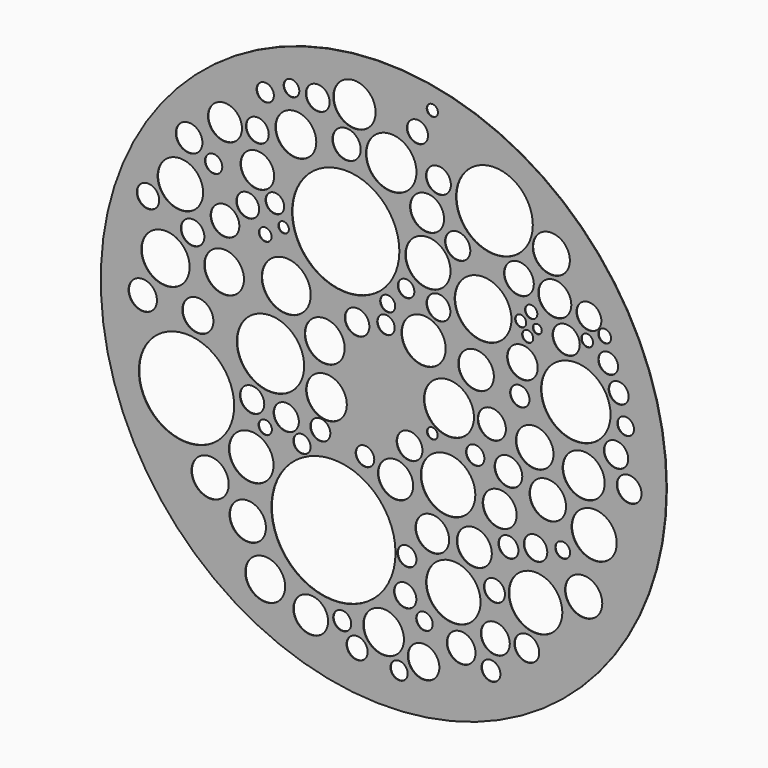
from build123d import *

# Parameters (mm, degrees)
F0_R     = 1000
F0_R_2   = 61.38998
F0_R_3   = 31.842181
F0_R_4   = 37.242055
F0_R_5   = 70.526293
F0_R_6   = 64.356651
F0_R_7   = 219.391517
F0_R_8   = 65.753484
F0_R_9   = 168.521236
F0_R_10  = 78.850831
F0_R_11  = 23.553947
F0_R_12  = 30.460371
F0_R_13  = 42.966316
F0_R_14  = 44.604784
F0_R_15  = 119.021956
F0_R_16  = 35.263173
F0_R_17  = 32.876751
F0_R_18  = 71.936304
F0_R_19  = 30.460413
F0_R_20  = 71.786959
F0_R_21  = 55.755955
F0_R_22  = 33.453559
F0_R_23  = 39.364688
F0_R_24  = 29.177227
F0_R_25  = 33.453586
F0_R_26  = 96.224838
F0_R_27  = 50.725429
F0_R_28  = 51.194623
F0_R_29  = 37.242023
F0_R_30  = 43.956721
F0_R_31  = 94.67152
F0_R_32  = 59.490896
F0_R_33  = 62.241098
F0_R_34  = 61.855632
F0_R_35  = 35.263136
F0_R_36  = 60.050997
F0_R_37  = 45.664417
F0_R_38  = 96.324191
F0_R_39  = 18.812673
F0_R_40  = 48.901236
F0_R_41  = 32.289583
F0_R_42  = 65.753459
F0_R_43  = 41.494101
F0_R_44  = 26.243157
F0_R_45  = 64.57922
F0_R_46  = 79.815419
F0_R_47  = 66.49981
F0_R_48  = 74.355552
F0_R_49  = 43.738606
F0_R_50  = 50.180363
F0_R_51  = 85.318234
F0_R_52  = 54.913217
F0_R_53  = 70.118247
F0_R_54  = 39.606942
F0_R_55  = 41.494074
F0_R_56  = 80.412392
F0_R_57  = 30.616988
F0_R_58  = 86.653157
F0_R_59  = 70.594088
F0_R_60  = 43.409279
F0_R_61  = 22.302375
F0_R_62  = 18.556744
F0_R_63  = 40.206182
F0_R_64  = 32.87672
F0_R_65  = 189.671128
F0_R_66  = 47.107899
F0_R_67  = 60.051012
F0_R_68  = 59.410431
F0_R_69  = 40.324973
F0_R_70  = 72.201723
F0_R_71  = 49.869616
F0_R_72  = 27.662725
F0_R_73  = 42.06647
F0_R_74  = 74.804504
F0_R_75  = 88.361083
F0_R_76  = 30.927843
F0_R_77  = 78.058306
F0_R_78  = 49.797687
F0_R_79  = 34.160865
F0_R_80  = 62.872096
F0_R_81  = 54.013128
F0_R_82  = 26.605142
F0_R_83  = 29.17726
F0_R_84  = 42.066419
F0_R_85  = 79.815404
F0_R_86  = 100.360726
F0_R_87  = 19.560463
F0_R_88  = 52.577273
F0_R_89  = 122.779995
F0_R_90  = 42.966345
F0_R_91  = 29.340715
F0_R_92  = 35.263226
F0_R_93  = 19.560434
F0_R_94  = 15.770137
F0_R_95  = 48.01289
F0_R_96  = 20.747037
F0_R_97  = 21.64948
F0_R_98  = 58.354486
F0_R_99  = 43.956675
F0_R_100 = 34.990798
F0_R_101 = 22.515749
F0_R_102 = 60.050972
F0_R_103 = 89.209455
F0_R_104 = 43.956667
F0_R_105 = 44.604751
F0_R_106 = 135.660057
F0_R_107 = 37.242065
F0_R_108 = 19.803494
F0_R_109 = 65.607934
F1_DEPTH = 2


with BuildPart() as f1:
    # F0 (on Front) → F1 (new body)
    with BuildSketch(Plane.XZ):
        Circle(F0_R)
        with Locations((-257.769406, -802.577317)):
            Circle(F0_R_2, mode=Mode.SUBTRACT)
        with Locations((-146.429196, -784.020603)):
            Circle(F0_R_3, mode=Mode.SUBTRACT)
        with Locations((-93.851864, -852.061868)):
            Circle(F0_R_4, mode=Mode.SUBTRACT)
        with Locations((-418.594122, -743.814468)):
            Circle(F0_R_5, mode=Mode.SUBTRACT)
        with Locations((-480.449796, -582.989693)):
            Circle(F0_R_6, mode=Mode.SUBTRACT)
        with Locations((-177.357018, -511.855662)):
            Circle(F0_R_7, mode=Mode.SUBTRACT)
        with Locations((-613.4395, -490.206182)):
            Circle(F0_R_8, mode=Mode.SUBTRACT)
        with Locations((-696.944654, -239.690721)):
            Circle(F0_R_9, mode=Mode.SUBTRACT)
        with Locations((-468.078673, -378.865957)):
            Circle(F0_R_10, mode=Mode.SUBTRACT)
        with Locations((-418.594122, -270.618528)):
            Circle(F0_R_11, mode=Mode.SUBTRACT)
        with Locations((-288.697213, -279.896915)):
            Circle(F0_R_12, mode=Mode.SUBTRACT)
        with Locations((-464.985877, -199.484542)):
            Circle(F0_R_13, mode=Mode.SUBTRACT)
        with Locations((-344.367325, -214.948446)):
            Circle(F0_R_14, mode=Mode.SUBTRACT)
        with Locations((-400.037438, -35.567008)):
            Circle(F0_R_15, mode=Mode.SUBTRACT)
        with Locations((-223.748773, -214.948446)):
            Circle(F0_R_16, mode=Mode.SUBTRACT)
        with Locations((-66.016801, -245.876282)):
            Circle(F0_R_17, mode=Mode.SUBTRACT)
        with Locations((-202.099293, -106.701024)):
            Circle(F0_R_18, mode=Mode.SUBTRACT)
        with Locations((54.601729, -873.711348)):
            Circle(F0_R_19, mode=Mode.SUBTRACT)
        with Locations((0, -771.64948)):
            Circle(F0_R_20, mode=Mode.SUBTRACT)
        with Locations((141.199693, -818.041205)):
            Circle(F0_R_21, mode=Mode.SUBTRACT)
        with Locations((379.343987, -768.556714)):
            Circle(F0_R_22, mode=Mode.SUBTRACT)
        with Locations((76.251231, -632.474244)):
            Circle(F0_R_23, mode=Mode.SUBTRACT)
        with Locations((144.292474, -691.237152)):
            Circle(F0_R_24, mode=Mode.SUBTRACT)
        with Locations((82.436793, -508.762896)):
            Circle(F0_R_25, mode=Mode.SUBTRACT)
        with Locations((246.354312, -567.525804)):
            Circle(F0_R_26, mode=Mode.SUBTRACT)
        with Locations((274.189383, -731.443286)):
            Circle(F0_R_27, mode=Mode.SUBTRACT)
        with Locations((394.807965, -663.402081)):
            Circle(F0_R_28, mode=Mode.SUBTRACT)
        with Locations((391.715169, -514.948487)):
            Circle(F0_R_29, mode=Mode.SUBTRACT)
        with Locations((506.14816, -657.216489)):
            Circle(F0_R_30, mode=Mode.SUBTRACT)
        with Locations((537.075937, -505.670071)):
            Circle(F0_R_31, mode=Mode.SUBTRACT)
        with Locations((172.1275, -409.793824)):
            Circle(F0_R_32, mode=Mode.SUBTRACT)
        with Locations((42.230606, -282.989681)):
            Circle(F0_R_33, mode=Mode.SUBTRACT)
        with Locations((320.581138, -403.608233)):
            Circle(F0_R_34, mode=Mode.SUBTRACT)
        with Locations((441.19966, -363.402069)):
            Circle(F0_R_35, mode=Mode.SUBTRACT)
        with Locations((410.271853, -255.154639)):
            Circle(F0_R_36, mode=Mode.SUBTRACT)
        with Locations((91.715135, -162.371129)):
            Circle(F0_R_37, mode=Mode.SUBTRACT)
        with Locations((227.797627, -239.690721)):
            Circle(F0_R_38, mode=Mode.SUBTRACT)
        with Locations((172.1275, -97.422682)):
            Circle(F0_R_39, mode=Mode.SUBTRACT)
        with Locations((441.19966, -128.350511)):
            Circle(F0_R_40, mode=Mode.SUBTRACT)
        with Locations((323.673934, -115.979381)):
            Circle(F0_R_41, mode=Mode.SUBTRACT)
        with Locations((707.17907, -431.443304)):
            Circle(F0_R_42, mode=Mode.SUBTRACT)
        with Locations((537.075937, -335.566998)):
            Circle(F0_R_43, mode=Mode.SUBTRACT)
        with Locations((632.952273, -310.824752)):
            Circle(F0_R_44, mode=Mode.SUBTRACT)
        with Locations((580.374956, -171.649471)):
            Circle(F0_R_45, mode=Mode.SUBTRACT)
        with Locations((744.292438, -227.319583)):
            Circle(F0_R_46, mode=Mode.SUBTRACT)
        with Locations((533.983171, -23.195876)):
            Circle(F0_R_47, mode=Mode.SUBTRACT)
        with Locations((707.17907, -54.123711)):
            Circle(F0_R_48, mode=Mode.SUBTRACT)
        with Locations((868.003845, -44.845361)):
            Circle(F0_R_49, mode=Mode.SUBTRACT)
        with Locations((-851.583838, 0)):
            Circle(F0_R_50, mode=Mode.SUBTRACT)
        with Locations((-771.171451, 140.721649)):
            Circle(F0_R_51, mode=Mode.SUBTRACT)
        with Locations((-656.73846, 0)):
            Circle(F0_R_52, mode=Mode.SUBTRACT)
        with Locations((-563.954949, 165.46391)):
            Circle(F0_R_53, mode=Mode.SUBTRACT)
        with Locations((-833.027124, 313.917518)):
            Circle(F0_R_54, mode=Mode.SUBTRACT)
        with Locations((-675.295174, 252.061874)):
            Circle(F0_R_55, mode=Mode.SUBTRACT)
        with Locations((-560.862184, 326.28867)):
            Circle(F0_R_27, mode=Mode.SUBTRACT)
        with Locations((-718.594134, 388.144344)):
            Circle(F0_R_56, mode=Mode.SUBTRACT)
        with Locations((-601.068377, 490.206182)):
            Circle(F0_R_57, mode=Mode.SUBTRACT)
        with Locations((-344.367325, 193.298966)):
            Circle(F0_R_58, mode=Mode.SUBTRACT)
        with Locations((-208.284855, 66.494845)):
            Circle(F0_R_59, mode=Mode.SUBTRACT)
        with Locations((-93.851864, 162.371129)):
            Circle(F0_R_60, mode=Mode.SUBTRACT)
        with Locations((-418.594122, 329.381466)):
            Circle(F0_R_61, mode=Mode.SUBTRACT)
        with Locations((-353.645682, 372.680426)):
            Circle(F0_R_62, mode=Mode.SUBTRACT)
        with Locations((-480.449796, 400.515467)):
            Circle(F0_R_63, mode=Mode.SUBTRACT)
        with Locations((-384.573519, 437.628865)):
            Circle(F0_R_64, mode=Mode.SUBTRACT)
        with Locations((-134.058043, 431.443304)):
            Circle(F0_R_65, mode=Mode.SUBTRACT)
        with Locations((-687.666297, 542.783499)):
            Circle(F0_R_66, mode=Mode.SUBTRACT)
        with Locations((-560.862184, 632.474244)):
            Circle(F0_R_67, mode=Mode.SUBTRACT)
        with Locations((-446.429193, 521.134019)):
            Circle(F0_R_68, mode=Mode.SUBTRACT)
        with Locations((-446.429193, 644.845366)):
            Circle(F0_R_69, mode=Mode.SUBTRACT)
        with Locations((-310.346723, 675.773144)):
            Circle(F0_R_70, mode=Mode.SUBTRACT)
        with Locations((-130.965263, 703.608215)):
            Circle(F0_R_71, mode=Mode.SUBTRACT)
        with Locations((-418.594122, 771.64948)):
            Circle(F0_R_57, mode=Mode.SUBTRACT)
        with Locations((-325.810641, 814.948499)):
            Circle(F0_R_72, mode=Mode.SUBTRACT)
        with Locations((-233.027115, 814.948499)):
            Circle(F0_R_73, mode=Mode.SUBTRACT)
        with Locations((-103.130206, 836.597979)):
            Circle(F0_R_74, mode=Mode.SUBTRACT)
        with Locations((230.890408, 0)):
            Circle(F0_R_75, mode=Mode.SUBTRACT)
        with Locations((8.209985, 187.113404)):
            Circle(F0_R_76, mode=Mode.SUBTRACT)
        with Locations((141.199693, 180.927843)):
            Circle(F0_R_77, mode=Mode.SUBTRACT)
        with Locations((382.436752, 0)):
            Circle(F0_R_78, mode=Mode.SUBTRACT)
        with Locations((481.405884, 119.072162)):
            Circle(F0_R_79, mode=Mode.SUBTRACT)
        with Locations((326.7667, 150.000006)):
            Circle(F0_R_80, mode=Mode.SUBTRACT)
        with Locations((490.684241, 227.319583)):
            Circle(F0_R_81, mode=Mode.SUBTRACT)
        with Locations((14.395545, 255.154639)):
            Circle(F0_R_82, mode=Mode.SUBTRACT)
        with Locations((79.344012, 323.195875)):
            Circle(F0_R_83, mode=Mode.SUBTRACT)
        with Locations((193.776995, 301.546395)):
            Circle(F0_R_84, mode=Mode.SUBTRACT)
        with Locations((156.663597, 428.350508)):
            Circle(F0_R_85, mode=Mode.SUBTRACT)
        with Locations((351.508945, 347.93815)):
            Circle(F0_R_86, mode=Mode.SUBTRACT)
        with Locations((484.49868, 354.123682)):
            Circle(F0_R_87, mode=Mode.SUBTRACT)
        with Locations((478.313118, 484.020621)):
            Circle(F0_R_88, mode=Mode.SUBTRACT)
        with Locations((679.343998, 165.46391)):
            Circle(F0_R_89, mode=Mode.SUBTRACT)
        with Locations((821.61206, 47.938146)):
            Circle(F0_R_90, mode=Mode.SUBTRACT)
        with Locations((855.632722, 146.907225)):
            Circle(F0_R_91, mode=Mode.SUBTRACT)
        with Locations((830.890357, 242.783517)):
            Circle(F0_R_92, mode=Mode.SUBTRACT)
        with Locations((509.240925, 313.917518)):
            Circle(F0_R_93, mode=Mode.SUBTRACT)
        with Locations((543.261588, 347.93815)):
            Circle(F0_R_94, mode=Mode.SUBTRACT)
        with Locations((645.323396, 347.93815)):
            Circle(F0_R_95, mode=Mode.SUBTRACT)
        with Locations((719.550192, 369.58763)):
            Circle(F0_R_96, mode=Mode.SUBTRACT)
        with Locations((521.612048, 394.329906)):
            Circle(F0_R_97, mode=Mode.SUBTRACT)
        with Locations((605.117202, 462.371111)):
            Circle(F0_R_98, mode=Mode.SUBTRACT)
        with Locations((725.735784, 446.907222)):
            Circle(F0_R_99, mode=Mode.SUBTRACT)
        with Locations((793.777049, 323.195875)):
            Circle(F0_R_100, mode=Mode.SUBTRACT)
        with Locations((781.405926, 403.608233)):
            Circle(F0_R_101, mode=Mode.SUBTRACT)
        with Locations((153.570816, 582.989693)):
            Circle(F0_R_102, mode=Mode.SUBTRACT)
        with Locations((26.766704, 697.422624)):
            Circle(F0_R_103, mode=Mode.SUBTRACT)
        with Locations((193.776995, 697.422624)):
            Circle(F0_R_104, mode=Mode.SUBTRACT)
        with Locations((261.81826, 514.948487)):
            Circle(F0_R_105, mode=Mode.SUBTRACT)
        with Locations((391.715169, 666.494846)):
            Circle(F0_R_106, mode=Mode.SUBTRACT)
        with Locations((119.550198, 824.226797)):
            Circle(F0_R_107, mode=Mode.SUBTRACT)
        with Locations((172.1275, 907.73195)):
            Circle(F0_R_108, mode=Mode.SUBTRACT)
        with Locations((592.746079, 598.453641)):
            Circle(F0_R_109, mode=Mode.SUBTRACT)
    extrude(amount=F1_DEPTH)


solid = f1.part
